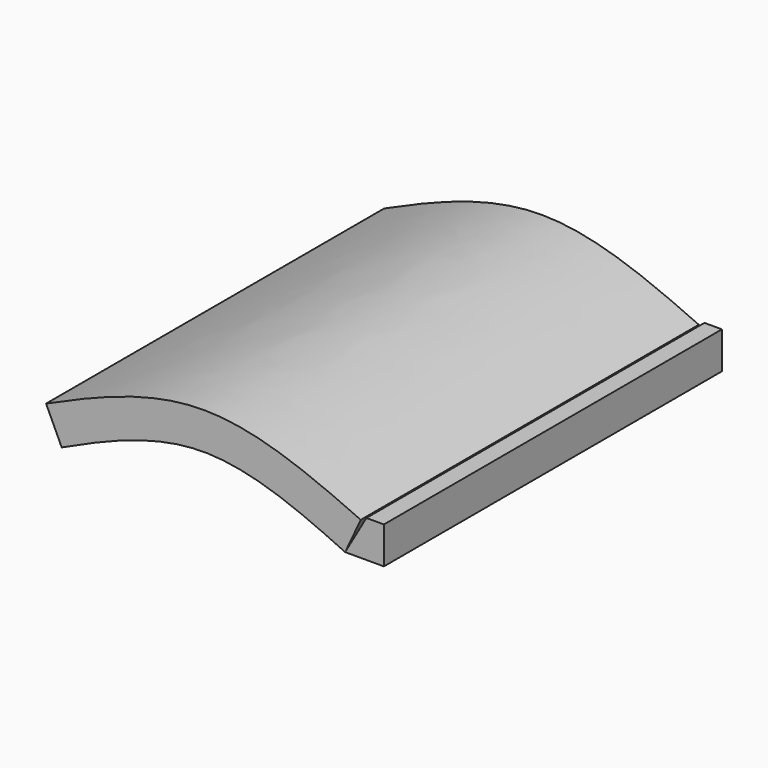
from build123d import *

# Parameters (mm, degrees)
F1_DEPTH = 120


with BuildPart() as f1:
    # F0 (on Front) → F1 (new body)
    with BuildSketch(Plane.XZ):
        with BuildLine():
            Line((-44.683824, 21.017941), (-40.25, 11.5))
            add(Edge.make_bspline(
                [(-40.25, 11.5), (-26.833333, 17.75), (-0.000677, 29.250315), (26.834688, 17.749369), (40.25, 11.5)],
                knots=[0, 0, 0, 0, 42.000744, 84.001488, 84.001488, 84.001488, 84.001488], degree=3))
            Line((40.25, 11.5), (44.683824, 21.017941))
            add(Edge.make_bspline(
                [(-44.683824, 21.017941), (-29.789216, 27.758971), (0, 40.241029), (29.789216, 27.758971), (44.683824, 21.017941)],
                knots=[0, 0, 0, 0, 46.531473, 93.062945, 93.062945, 93.062945, 93.062945], degree=3))
        make_face()
        Polygon((46.286553, 22), (40.25, 11.5), (51.25, 11.5), (51.25, 22), align=None)
    extrude(amount=F1_DEPTH)


solid = f1.part
